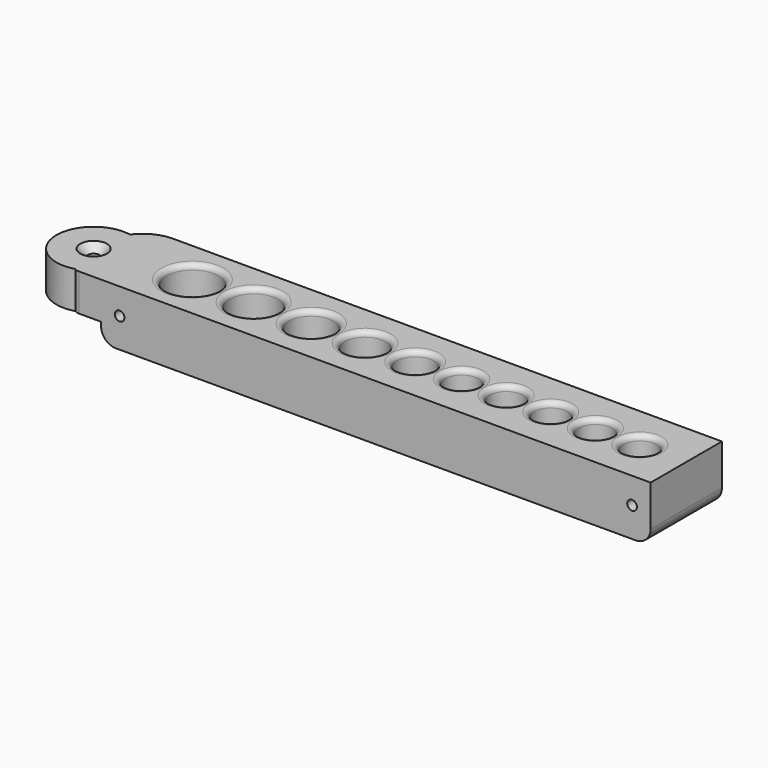
from build123d import *

# Parameters (mm, degrees)
TUBE010_R         = 10
TUBE010_R_2       = 1.6
TUBE010_DEPTH     = 10
BOX031_W          = 10
BOX031_H          = 24
BOX031_DEPTH      = 10
FILLET125_R       = 2
CHAMFER033_SIZE   = 4
FILLET126_R       = 2
FILLET127_R       = 10
CHAMFER034_SIZE   = 2
CYLINDER088_R     = 4.5
CYLINDER088_DEPTH = 30
CYLINDER085_R     = 4.5
CYLINDER085_DEPTH = 30
CYLINDER084_R     = 4.5
CYLINDER084_DEPTH = 30
CYLINDER083_R     = 4.5
CYLINDER083_DEPTH = 30
CYLINDER082_R     = 4.5
CYLINDER082_DEPTH = 30
CYLINDER081_R     = 5
CYLINDER081_DEPTH = 30
CYLINDER080_R     = 5.5
CYLINDER080_DEPTH = 30
CYLINDER079_R     = 6
CYLINDER079_DEPTH = 30
CYLINDER078_R     = 6.5
CYLINDER078_DEPTH = 30
CYLINDER077_R     = 7
CYLINDER077_DEPTH = 30
CYLINDER087_R     = 1.3
CYLINDER087_DEPTH = 25
CYLINDER086_R     = 1.3
CYLINDER086_DEPTH = 25
BOX030_W          = 148
BOX030_H          = 24
BOX030_DEPTH      = 15
FILLET128_R       = 4
FILLET129_R       = 1.4


with BuildPart() as tube010:
    # Tube010 → Tube010 (new body)
    with BuildSketch(Plane(origin=(-28, -2, 20), x_dir=(1, 0, 0), z_dir=(0, 0, 1))):
        Circle(TUBE010_R)
        Circle(TUBE010_R_2, mode=Mode.SUBTRACT)
    extrude(amount=TUBE010_DEPTH)


with BuildPart() as chamfer034:
    # Box031 → Box031 (new body)
    with BuildSketch(Plane(origin=(-26, -12, 20), x_dir=(1, 0, 0), z_dir=(0, 0, 1))):
        with Locations((5, 12)):
            Rectangle(BOX031_W, BOX031_H)
    extrude(amount=BOX031_DEPTH)

    # Fillet125
    fillet125_edges = [chamfer034.edges().sort_by_distance(p)[0] for p in [
        (-26, -12, 25),
    ]]
    fillet(fillet125_edges, radius=FILLET125_R)

    # Chamfer033
    chamfer033_edges = [chamfer034.edges().sort_by_distance(p)[0] for p in [
        (-26, 12, 25),
    ]]
    chamfer(chamfer033_edges, length=CHAMFER033_SIZE)

    # Fillet126
    fillet126_edges = [chamfer034.edges().sort_by_distance(p)[0] for p in [
        (-26, 8, 25),
    ]]
    fillet(fillet126_edges, radius=FILLET126_R)

    # Fillet127
    fillet127_edges = [chamfer034.edges().sort_by_distance(p)[0] for p in [
        (-22, 12, 25),
    ]]
    fillet(fillet127_edges, radius=FILLET127_R)

    # Fusion052: union Tube010
    add(tube010.part)

    # Chamfer034
    chamfer034_edges = [chamfer034.edges().sort_by_distance(p)[0] for p in [
        (-29.6, -2, 30),
    ]]
    chamfer(chamfer034_edges, length=CHAMFER034_SIZE)


with BuildPart() as cylinder088:
    # Cylinder088 → Cylinder088 (new body)
    with BuildSketch(Plane(origin=(117.5, 0, 0), x_dir=(1, 0, 0), z_dir=(0, 0, 1))):
        Circle(CYLINDER088_R)
    extrude(amount=CYLINDER088_DEPTH)


with BuildPart() as cylinder085:
    # Cylinder085 → Cylinder085 (new body)
    with BuildSketch(Plane(origin=(105.5, 0, 0), x_dir=(1, 0, 0), z_dir=(0, 0, 1))):
        Circle(CYLINDER085_R)
    extrude(amount=CYLINDER085_DEPTH)


with BuildPart() as cylinder084:
    # Cylinder084 → Cylinder084 (new body)
    with BuildSketch(Plane(origin=(93.5, 0, 0), x_dir=(1, 0, 0), z_dir=(0, 0, 1))):
        Circle(CYLINDER084_R)
    extrude(amount=CYLINDER084_DEPTH)


with BuildPart() as cylinder083:
    # Cylinder083 → Cylinder083 (new body)
    with BuildSketch(Plane(origin=(81.5, 0, 0), x_dir=(1, 0, 0), z_dir=(0, 0, 1))):
        Circle(CYLINDER083_R)
    extrude(amount=CYLINDER083_DEPTH)


with BuildPart() as cylinder082:
    # Cylinder082 → Cylinder082 (new body)
    with BuildSketch(Plane(origin=(69.5, 0, 0), x_dir=(1, 0, 0), z_dir=(0, 0, 1))):
        Circle(CYLINDER082_R)
    extrude(amount=CYLINDER082_DEPTH)


with BuildPart() as cylinder081:
    # Cylinder081 → Cylinder081 (new body)
    with BuildSketch(Plane(origin=(57, 0, 0), x_dir=(1, 0, 0), z_dir=(0, 0, 1))):
        Circle(CYLINDER081_R)
    extrude(amount=CYLINDER081_DEPTH)


with BuildPart() as cylinder080:
    # Cylinder080 → Cylinder080 (new body)
    with BuildSketch(Plane(origin=(43.5, 0, 0), x_dir=(1, 0, 0), z_dir=(0, 0, 1))):
        Circle(CYLINDER080_R)
    extrude(amount=CYLINDER080_DEPTH)


with BuildPart() as cylinder079:
    # Cylinder079 → Cylinder079 (new body)
    with BuildSketch(Plane(origin=(29, 0, 0), x_dir=(1, 0, 0), z_dir=(0, 0, 1))):
        Circle(CYLINDER079_R)
    extrude(amount=CYLINDER079_DEPTH)


with BuildPart() as cylinder078:
    # Cylinder078 → Cylinder078 (new body)
    with BuildSketch(Plane(origin=(13.5, 0, 0), x_dir=(1, 0, 0), z_dir=(0, 0, 1))):
        Circle(CYLINDER078_R)
    extrude(amount=CYLINDER078_DEPTH)


with BuildPart() as cylinder077:
    # Cylinder077 → Cylinder077 (new body)
    with BuildSketch(Plane(origin=(-3, 0, 0), x_dir=(1, 0, 0), z_dir=(0, 0, 1))):
        Circle(CYLINDER077_R)
    extrude(amount=CYLINDER077_DEPTH)


with BuildPart() as obj1:
    # Cylinder087 → Cylinder087 (new body)
    with BuildSketch(Plane(origin=(125, -20, 23), x_dir=(1, 0, 0), z_dir=(0, 1, 0))):
        Circle(CYLINDER087_R)
    extrude(amount=CYLINDER087_DEPTH)


with BuildPart() as fusion053:
    # Cylinder086 → Cylinder086 (new body)
    with BuildSketch(Plane(origin=(-13, -20, 23), x_dir=(1, 0, 0), z_dir=(0, 1, 0))):
        Circle(CYLINDER086_R)
    extrude(amount=CYLINDER086_DEPTH)

    # Fusion050: union obj1
    add(obj1.part)

    # Fusion053: union Cylinder088, Cylinder085, Cylinder084, Cylinder083, Cylinder082, Cylinder081, Cylinder080, Cylinder079, Cylinder078, Cylinder077
    add(cylinder088.part)
    add(cylinder085.part)
    add(cylinder084.part)
    add(cylinder083.part)
    add(cylinder082.part)
    add(cylinder081.part)
    add(cylinder080.part)
    add(cylinder079.part)
    add(cylinder078.part)
    add(cylinder077.part)


with BuildPart() as top_s2:
    # Box030 → Box030 (new body)
    with BuildSketch(Plane(origin=(-18, -12, 15), x_dir=(1, 0, 0), z_dir=(0, 0, 1))):
        with Locations((74, 12)):
            Rectangle(BOX030_W, BOX030_H)
    extrude(amount=BOX030_DEPTH)

    # Fillet128
    fillet128_edges = [top_s2.edges().sort_by_distance(p)[0] for p in [
        (-18, 0, 15),
        (130, 0, 15),
    ]]
    fillet(fillet128_edges, radius=FILLET128_R)

    # Cut016: cut Fusion053
    add(fusion053.part, mode=Mode.SUBTRACT)

    # Fillet129
    fillet129_edges = [top_s2.edges().sort_by_distance(p)[0] for p in [
        (-10, 0, 30),
        (7, 0, 30),
        (23, 0, 30),
        (38, 0, 30),
        (52, 0, 30),
        (65, 0, 30),
        (77, 0, 30),
        (89, 0, 30),
        (101, 0, 30),
        (113, 0, 30),
        (-10, 0, 15),
        (7, 0, 15),
        (23, 0, 15),
        (38, 0, 15),
        (52, 0, 15),
        (65, 0, 15),
        (77, 0, 15),
        (89, 0, 15),
        (101, 0, 15),
        (113, 0, 15),
    ]]
    fillet(fillet129_edges, radius=FILLET129_R)

    # Fusion054: union Chamfer034
    add(chamfer034.part)


with BuildPart() as top_s2_1:
    # Fusion054 placement: moved
    add(top_s2.part.moved(Location((0, 16, 170))))


solid = top_s2_1.part
